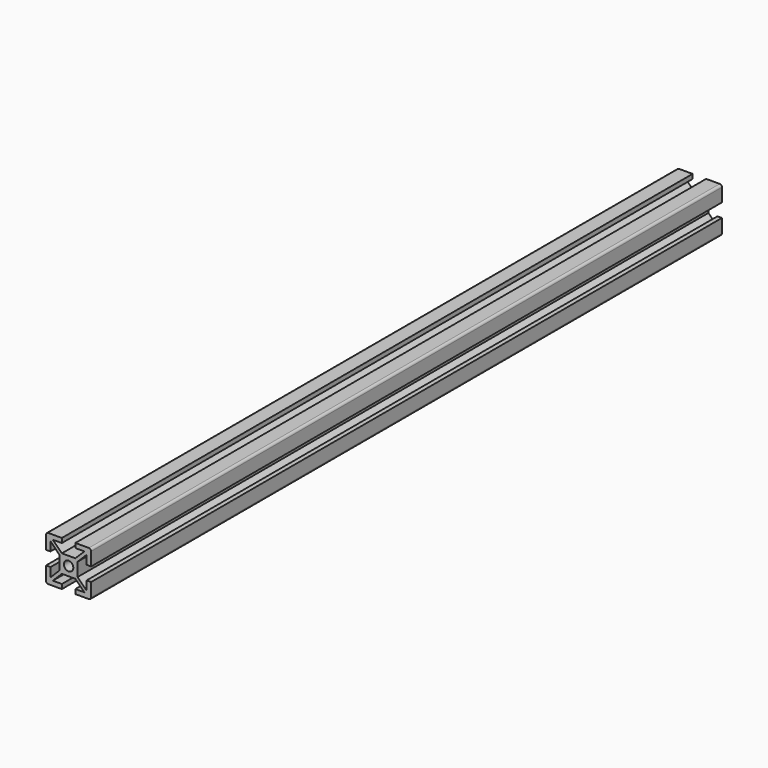
from build123d import *

# Parameters (mm, degrees)
F0_R     = 2.1
F2_DEPTH = 350


with BuildPart() as f2:
    # F0 (on Front) → F2 (new body)
    with BuildSketch(Plane.XZ):
        with BuildLine():
            ThreePointArc((-10, -9), (-9.7071067812, -9.7071067812), (-9, -10))
            Line((-9, -10), (-3, -10))
            Line((-3, -10), (-3, -8))
            Line((-3, -8), (-7, -8))
            Line((-7, -8), (-3, -4))
            Line((-3, -4), (3, -4))
            Line((3, -4), (7, -8))
            Line((7, -8), (3, -8))
            Line((3, -8), (3, -10))
            Line((3, -10), (9, -10))
            ThreePointArc((9, -10), (9.7071067812, -9.7071067812), (10, -9))
            Line((10, -9), (10, -3))
            Line((10, -3), (8, -3))
            Line((8, -3), (8, -7))
            Line((8, -7), (4, -3))
            Line((4, -3), (4, 3))
            Line((4, 3), (8, 7))
            Line((8, 7), (8, 3.0783633339))
            Line((8, 3.0783633339), (10, 3.0783633339))
            Line((10, 3.0783633339), (10, 9))
            ThreePointArc((10, 9), (9.7071067812, 9.7071067812), (9, 10))
            Line((9, 10), (3, 10))
            Line((3, 10), (3, 8))
            Line((3, 8), (7, 8))
            Line((7, 8), (3, 4))
            Line((3, 4), (-3, 4))
            Line((-3, 4), (-7, 8))
            Line((-7, 8), (-3, 8))
            Line((-3, 8), (-3, 10))
            Line((-3, 10), (-9, 10))
            ThreePointArc((-9, 10), (-9.7071067812, 9.7071067812), (-10, 9))
            Line((-10, 9), (-10, 3.0783633339))
            Line((-10, 3.0783633339), (-8.1, 3.0783633339))
            ThreePointArc((-8.1, 3.0783633339), (-8.0292893219, 3.1076526558), (-8, 3.1783633339))
            Line((-8, 3.1783633339), (-8, 7))
            Line((-8, 7), (-4, 3))
            Line((-4, 3), (-4, -3))
            Line((-4, -3), (-8, -7))
            Line((-8, -7), (-8, -3))
            Line((-8, -3), (-10, -3))
            Line((-10, -3), (-10, -9))
        make_face()
        Circle(F0_R, mode=Mode.SUBTRACT)
    extrude(amount=F2_DEPTH)


solid = f2.part
